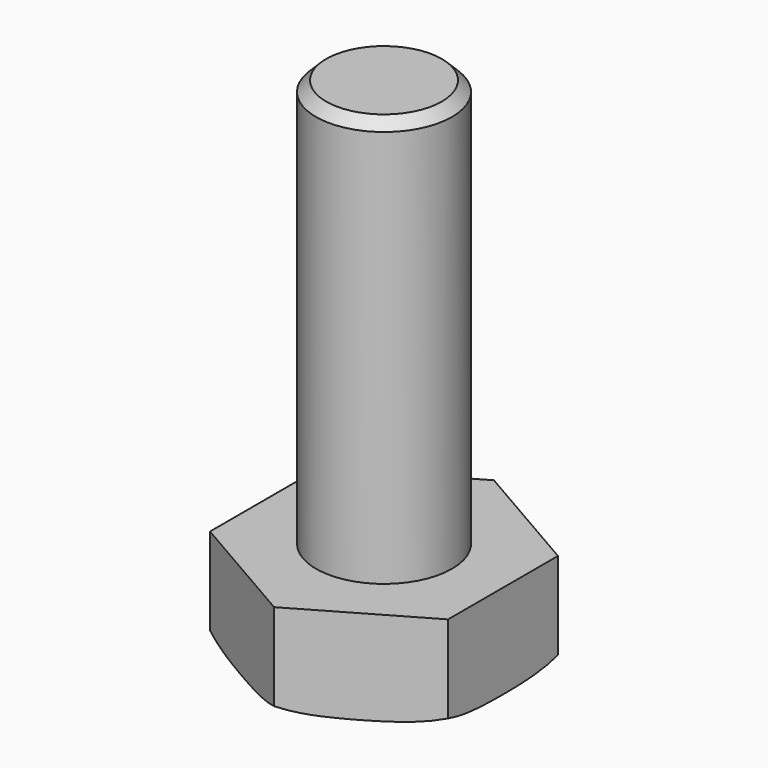
from build123d import *

# Parameters (mm, degrees)
F0_R     = 2
F1_DEPTH = 14.8
F2_DEPTH = 2.8
F5_SIZE  = 0.3


with BuildPart() as f1:
    # F0 (on Top) → F1 (new body)
    with BuildSketch(Plane.XY):
        Circle(F0_R)
    extrude(amount=F1_DEPTH)

    # F0 (on Top) → F2 (join)
    with BuildSketch(Plane.XY):
        Polygon((3.5, 2.020726), (0, 4.041452), (-3.5, 2.020726), (-3.5, -2.020726), (0, -4.041452), (3.5, -2.020726), align=None)
        Circle(F0_R, mode=Mode.SUBTRACT)
    extrude(amount=F2_DEPTH)

    # F3 (on Right) → F4 (revolve, cut)
    with BuildSketch(Plane.YZ):
        with BuildLine():
            add(Edge.make_bspline(
                [(2.858781, 0), (3.303965, 0), (3.651425, 0), (4.042318, 0.235874)],
                knots=[0, 0, 0, 0, 1.206813, 1.206813, 1.206813, 1.206813], degree=3))
            Line((2.858781, 0), (4.043203, 0))
            Line((4.043203, 0), (4.042318, 0.235874))
        make_face()
    revolve(axis=Axis((0, 0, 0), (0, 0, -1)), mode=Mode.SUBTRACT)

    # F5
    f5_edges = [f1.edges().sort_by_distance(p)[0] for p in [
        (-2, 0, 14.8),
    ]]
    chamfer(f5_edges, length=F5_SIZE)


solid = f1.part
